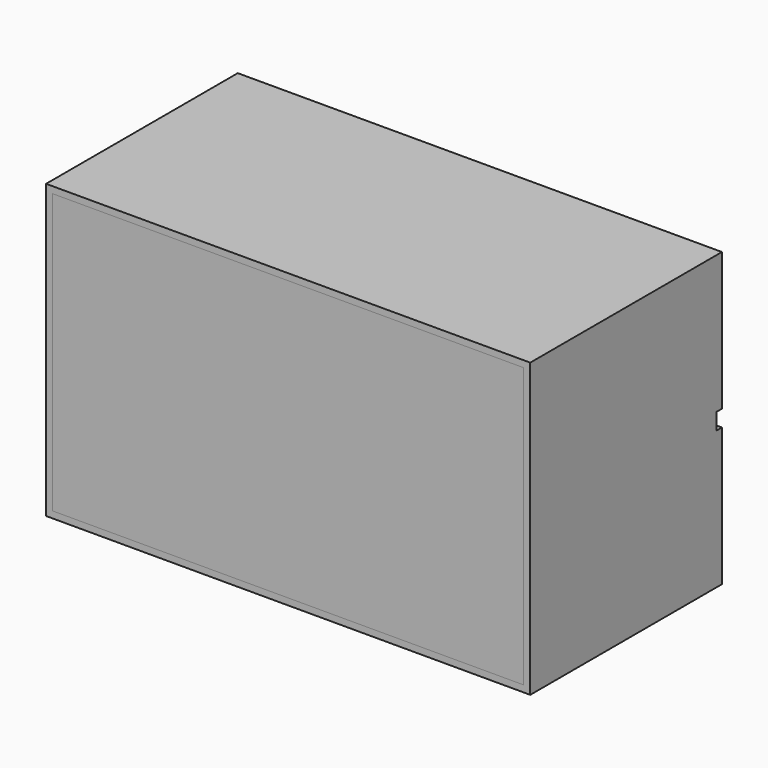
from build123d import *

# Parameters (mm, degrees)
F0_W      = 285
F0_H      = 141
F1_DEPTH  = 169
F2_W      = 141
F2_H      = 169
F3_DEPTH  = 4
F4_W      = 141
F4_H      = 169
F5_DEPTH  = 4
F6_W      = 293
F6_H      = 141
F7_DEPTH  = 4
F8_W      = 293
F8_H      = 141
F9_DEPTH  = 4
F10_W     = 293
F10_H     = 83.5
F11_DEPTH = 4


with BuildPart() as f1:
    # F0 (on Top) → F1 (new body)
    with BuildSketch(Plane.XY):
        with Locations((142.5, -70.5)):
            Rectangle(F0_W, F0_H)
    extrude(amount=F1_DEPTH)


with BuildPart() as f3:
    # F2 (on face) → F3 (new body)
    with BuildSketch(Plane.YZ.offset(285)):
        with Locations((-70.5, 84.5)):
            Rectangle(F2_W, F2_H)
    extrude(amount=F3_DEPTH)



with BuildPart() as f5:
    # F4 (on face) → F5 (new body)
    with BuildSketch(Plane(origin=(0, 0, 0), x_dir=(0, -1, 0), z_dir=(-1, 0, 0))):
        with Locations((70.5, 84.5)):
            Rectangle(F4_W, F4_H)
    extrude(amount=F5_DEPTH)


with BuildPart() as f3_1:
    add(f3.part)

    add(f5.part)  # F7 merges F5
    # F6 (on face) → F7 (join)
    with BuildSketch(Plane.XY.offset(169)):
        with Locations((142.5, -70.5)):
            Rectangle(F6_W, F6_H)
    extrude(amount=F7_DEPTH)



with BuildPart() as f9:
    # F8 (on face) → F9 (new body)
    with BuildSketch(Plane(origin=(0, 0, 0), x_dir=(1, 0, 0), z_dir=(0, 0, -1))):
        with Locations((142.5, 70.5)):
            Rectangle(F8_W, F8_H)
    extrude(amount=F9_DEPTH)


with BuildPart() as f3_2:
    add(f3_1.part)

    add(f9.part)  # F11 merges F9
    # F10 (on face) → F11 (join)
    with BuildSketch(Plane(origin=(0, 0, 0), x_dir=(-1, 0, 0), z_dir=(0, 1, 0))):
        with Locations((-142.5, 131.25)):
            Rectangle(F10_W, F10_H)
        with Locations((-142.5, 37.75)):
            Rectangle(F10_W, F10_H)
    extrude(amount=F11_DEPTH)


solid = Compound([f1.part, f3_2.part])
